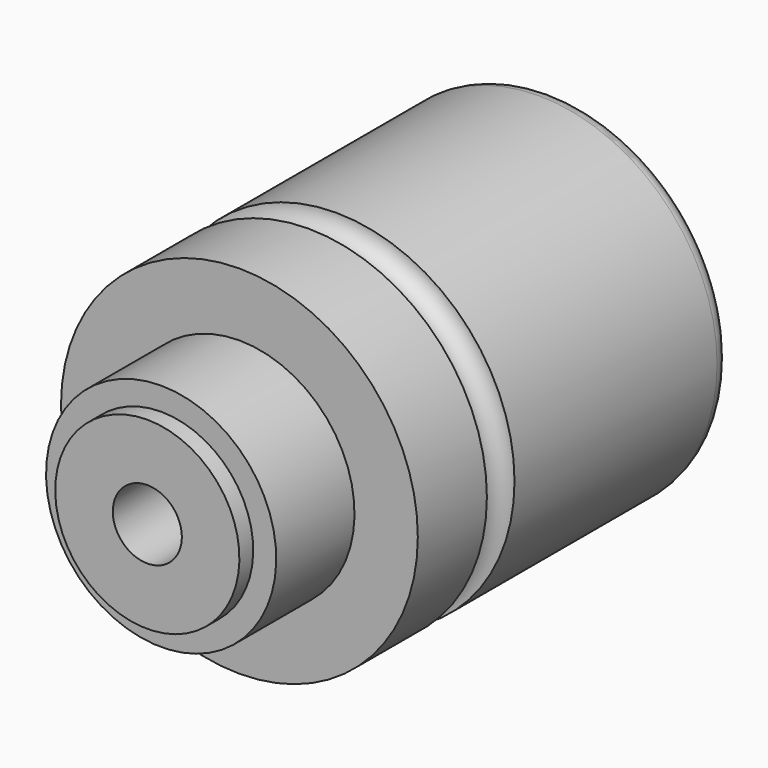
from build123d import *


with BuildPart() as f2:
    # F1 (on Right) → F2 (revolve)
    with BuildSketch(Plane.YZ):
        with BuildLine():
            Line((-38, 16), (-38, 0))
            Line((-38, 0), (0, 0))
            Line((0, 0), (50, 0))
            Line((50, 0), (50, 28))
            ThreePointArc((50, 28), (49.12132, 30.12132), (47, 31))
            Line((47, 31), (3, 31))
            ThreePointArc((3, 31), (0, 28), (-3, 31))
            Line((-3, 31), (-18, 31))
            Line((-18, 31), (-18, 20))
            Line((-18, 20), (-35, 20))
            Line((-35, 20), (-35, 16))
            Line((-35, 16), (-38, 16))
        make_face()
    revolve(axis=Axis((0, -19, 0), (0, -1, 0)))

    # F0 (on Right) → F3 (revolve, cut)
    with BuildSketch(Plane.YZ):
        Polygon((-38, 0), (0, 0), (50, 0), (50, 25), (48.5, 25), (48.5, 16), (38, 16), (38, 12.5), (35, 12.5), (35, 20.5), (28, 20.5), (28, 12.5), (20, 12.5), (20, 6), (-38, 6), align=None)
    revolve(axis=Axis((0, -19, 0), (0, -1, 0)), mode=Mode.SUBTRACT)


solid = f2.part
